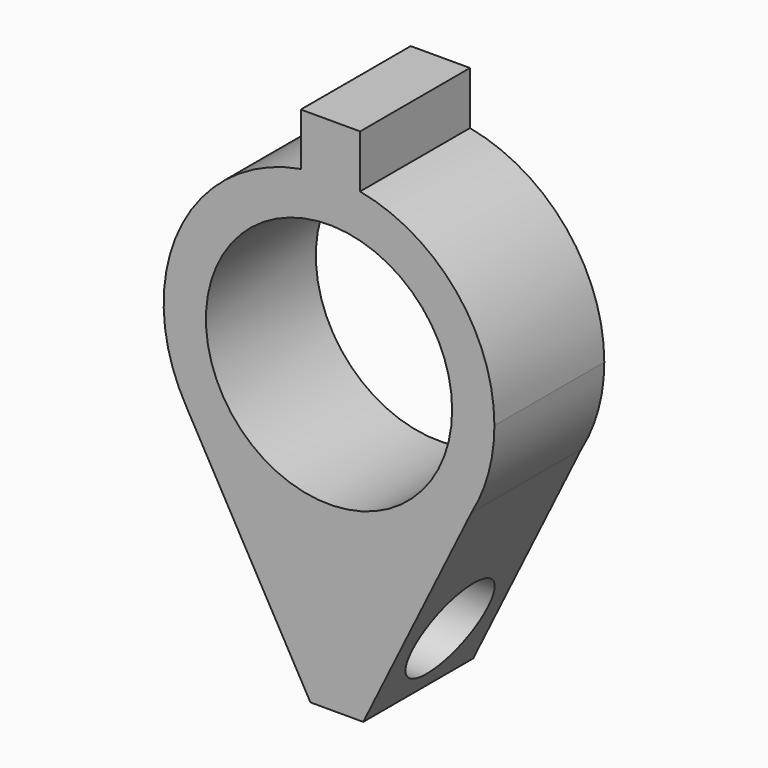
from build123d import *

# Parameters (mm, degrees)
F0_R     = 23.3
F2_DEPTH = 26
F3_D     = 18
F3_DEPTH = 31.301
F4_D     = 18
F4_DEPTH = 31.301


with BuildPart() as f2:
    # F0 (on Front) → F2 (new body)
    with BuildSketch(Plane.XZ):
        with BuildLine():
            ThreePointArc((-5.3364344982, 30.8417325526), (0.278406123, 31.2987617971), (5.8842282742, 30.7419234534))
            Line((5.8842282742, 30.7419234534), (5.8842282742, 40.749304027))
            Line((5.8842282742, 40.749304027), (-5.3364344982, 40.749304027))
            Line((-5.3364344982, 40.749304027), (-5.3364344982, 30.8417325526))
        make_face()
        with BuildLine():
            ThreePointArc((26.9505900946, -15.9171509245), (30.1930742883, -8.2503493877), (31.3, 0))
            ThreePointArc((31.3, 0), (24.1232910792, 19.9438418442), (5.8842282742, 30.7419234534))
            ThreePointArc((5.8842282742, 30.7419234534), (0.278406123, 31.2987617971), (-5.3364344982, 30.8417325526))
            ThreePointArc((-5.3364344982, 30.8417325526), (-28.4114639762, 13.1331151952), (-26.9505900946, -15.9171509245))
            ThreePointArc((-26.9505900946, -15.9171509245), (-14.8696278527, -27.5424067126), (1.4777821376, -31.2650949136))
            ThreePointArc((1.4777821376, -31.2650949136), (16.1534186201, -26.8096450347), (26.9505900946, -15.9171509245))
        make_face()
        Circle(F0_R, mode=Mode.SUBTRACT)
        with BuildLine():
            Line((6.4777821376, -57.4513469467), (26.9505900946, -15.9171509245))
            ThreePointArc((26.9505900946, -15.9171509245), (16.1534186201, -26.8096450347), (1.4777821376, -31.2650949136))
            Line((1.4777821376, -31.2650949136), (1.4777821376, -57.4513469467))
            Line((1.4777821376, -57.4513469467), (6.4777821376, -57.4513469467))
        make_face()
        with BuildLine():
            Line((1.4777821376, -57.4513469467), (1.4777821376, -31.2650949136))
            ThreePointArc((1.4777821376, -31.2650949136), (-14.8696278527, -27.5424067126), (-26.9505900946, -15.9171509245))
            Line((-26.9505900946, -15.9171509245), (-3.5222178624, -57.4513469467))
            Line((-3.5222178624, -57.4513469467), (1.4777821376, -57.4513469467))
        make_face()
    extrude(amount=-F2_DEPTH)

    # F3 (through all, one way)
    with BuildSketch(Plane.YZ):
        with Locations((13, -45.2576093376)):
            Circle(F3_D / 2)
    extrude(amount=-F3_DEPTH, mode=Mode.SUBTRACT)

    # F4 (through all, one way)
    with BuildSketch(Plane(origin=(0, 0, 0), x_dir=(0, 1, 0), z_dir=(-1, 0, 0))):
        with Locations((12.9997157162, 45.1954063838)):
            Circle(F4_D / 2)
    extrude(amount=-F4_DEPTH, mode=Mode.SUBTRACT)


solid = f2.part
